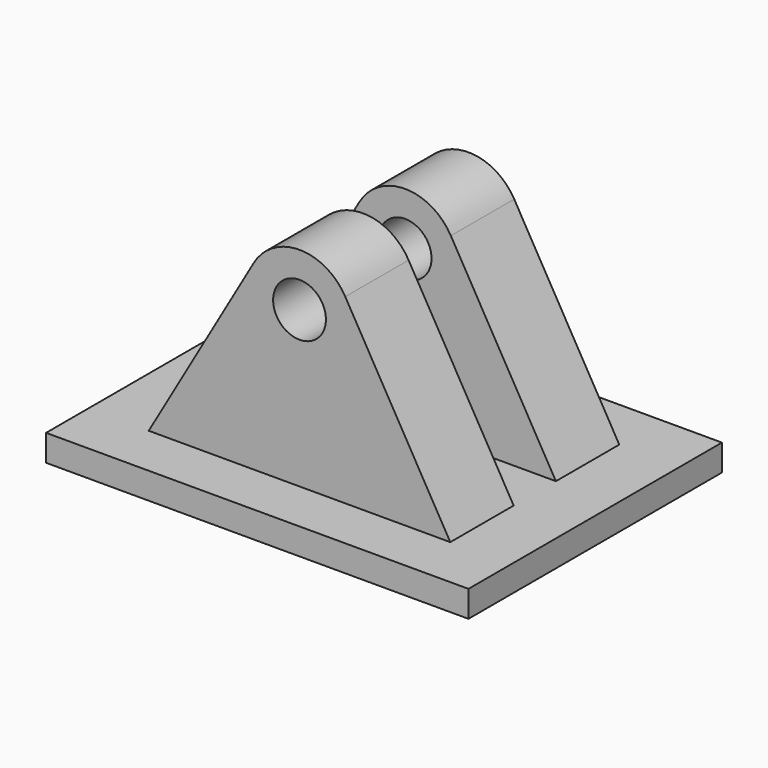
from build123d import *

# Parameters (mm, degrees)
F0_R     = 0.25
F1_DEPTH = 1
F2_W     = 4.116254
F2_H     = 0.5
F3_DEPTH = 12.5
F4_W     = 4
F4_H     = 3
F5_DEPTH = 0.125


with BuildPart() as f1:
    # F0 (on Front) → F1 (new body, symmetric)
    with BuildSketch(Plane.XZ):
        with BuildLine():
            Line((-0.433013, 1.848076), (-1.5, 0))
            Line((-1.5, 0), (1.5, 0))
            Line((1.5, 0), (0.433013, 1.848076))
            ThreePointArc((0.433013, 1.848076), (0, 2.098076), (-0.433013, 1.848076))
        make_face()
        with Locations((0, 1.598076)):
            Circle(F0_R, mode=Mode.SUBTRACT)
    extrude(amount=F1_DEPTH, both=True)

    # F2 (on Top) → F3 (cut, symmetric)
    with BuildSketch(Plane.XY):
        Rectangle(F2_W, F2_H)
    extrude(amount=F3_DEPTH, both=True, mode=Mode.SUBTRACT)

    # F4 (on Top) → F5 (join, symmetric)
    with BuildSketch(Plane.XY):
        Rectangle(F4_W, F4_H)
    extrude(amount=F5_DEPTH, both=True)


solid = f1.part
